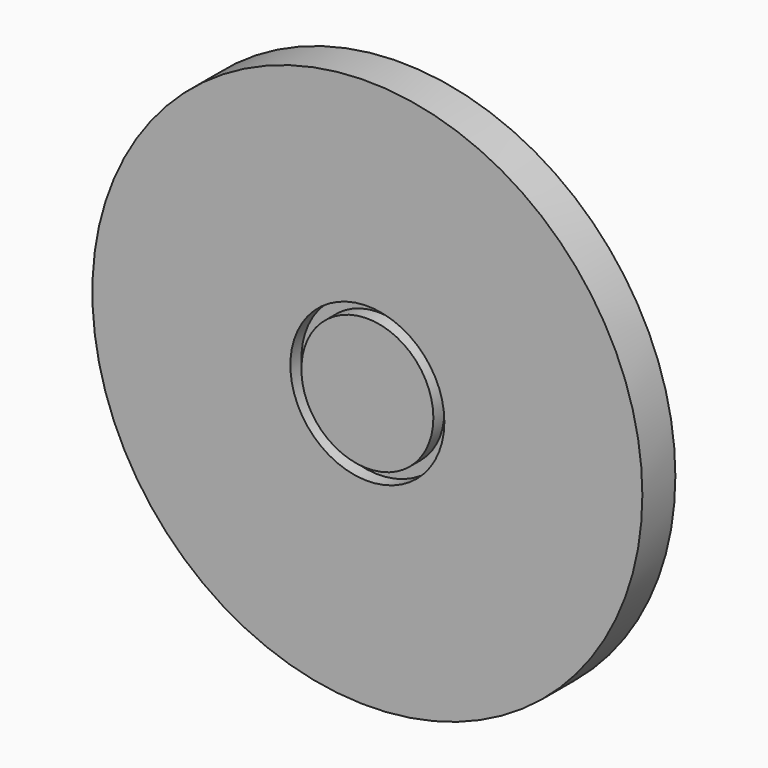
from build123d import *

# Parameters (mm, degrees)
F0_R     = 127
F0_R_2   = 35.56
F0_R_3   = 30.48
F1_DEPTH = 19.05
F2_DEPTH = 12.7


with BuildPart() as f1:
    # F0 (on Front) → F1 (new body)
    with BuildSketch(Plane.XZ):
        Circle(F0_R)
        Circle(F0_R_2, mode=Mode.SUBTRACT)
        Circle(F0_R_3)
    extrude(amount=F1_DEPTH)


with BuildPart() as f2:
    # F0 (on Front) → F2 (new body)
    with BuildSketch(Plane.XZ):
        Circle(F0_R_2)
        Circle(F0_R_3, mode=Mode.SUBTRACT)
    extrude(amount=F2_DEPTH)


solid = Compound([f1.part, f2.part])
